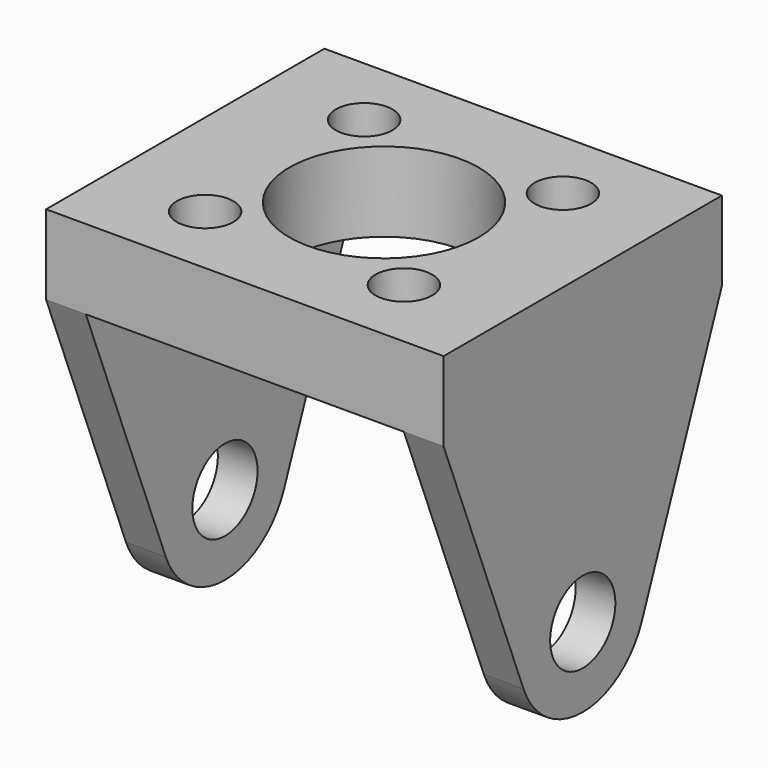
from build123d import *

# Parameters (mm, degrees)
F0_W     = 40
F0_H     = 35
F0_R     = 9.525
F1_DEPTH = 8
F2_R     = 4.1
F3_DEPTH = 4
F4_R     = 4.1
F5_DEPTH = 4
F6_R     = 1.55
F7_DEPTH = 8
F6_R_2   = 2.85
F8_DEPTH = 5


with BuildPart() as f1:
    # F0 (on Top) → F1 (new body)
    with BuildSketch(Plane.XY):
        Rectangle(F0_W, F0_H)
        Circle(F0_R, mode=Mode.SUBTRACT)
    extrude(amount=F1_DEPTH)

    # F2 (on face) → F3 (join)
    with BuildSketch(Plane(origin=(-20, 0, 0), x_dir=(0, -1, 0), z_dir=(-1, 0, 0))):
        with BuildLine():
            Line((-17.5, 0), (-7.445494, -25.579978))
            ThreePointArc((-7.445494, -25.579978), (0, -30.65344), (7.445494, -25.579978))
            Line((7.445494, -25.579978), (17.5, 0))
            Line((17.5, 0), (-17.5, 0))
        make_face()
        with Locations((0, -22.65344)):
            Circle(F2_R, mode=Mode.SUBTRACT)
    extrude(amount=-F3_DEPTH)

    # F4 (on face) → F5 (join)
    with BuildSketch(Plane.YZ.offset(20)):
        with BuildLine():
            Line((17.5, 0), (-17.5, 0))
            Line((-17.5, 0), (-7.445494, -25.579978))
            ThreePointArc((-7.445494, -25.579978), (0, -30.65344), (7.445494, -25.579978))
            Line((7.445494, -25.579978), (17.5, 0))
        make_face()
        with Locations((0, -22.65344)):
            Circle(F4_R, mode=Mode.SUBTRACT)
    extrude(amount=-F5_DEPTH)

    # F6 (on face) → F7 (cut, through all)
    with BuildSketch(Plane.XY.offset(8)):
        with Locations((-10, 10)):
            Circle(F6_R)
        with Locations((10, 10)):
            Circle(F6_R)
        with Locations((-10, -10)):
            Circle(F6_R)
        with Locations((10, -10)):
            Circle(F6_R)
    extrude(amount=-F7_DEPTH, mode=Mode.SUBTRACT)

    # F6 (on face) → F8 (cut)
    with BuildSketch(Plane.XY.offset(8)):
        with Locations((-10, 10)):
            Circle(F6_R_2)
        with Locations((-10, 10)):
            Circle(F6_R, mode=Mode.SUBTRACT)
        with Locations((-10, -10)):
            Circle(F6_R_2)
        with Locations((-10, -10)):
            Circle(F6_R, mode=Mode.SUBTRACT)
        with Locations((10, 10)):
            Circle(F6_R_2)
        with Locations((10, 10)):
            Circle(F6_R, mode=Mode.SUBTRACT)
        with Locations((10, -10)):
            Circle(F6_R_2)
        with Locations((10, -10)):
            Circle(F6_R, mode=Mode.SUBTRACT)
    extrude(amount=-F8_DEPTH, mode=Mode.SUBTRACT)


solid = f1.part
